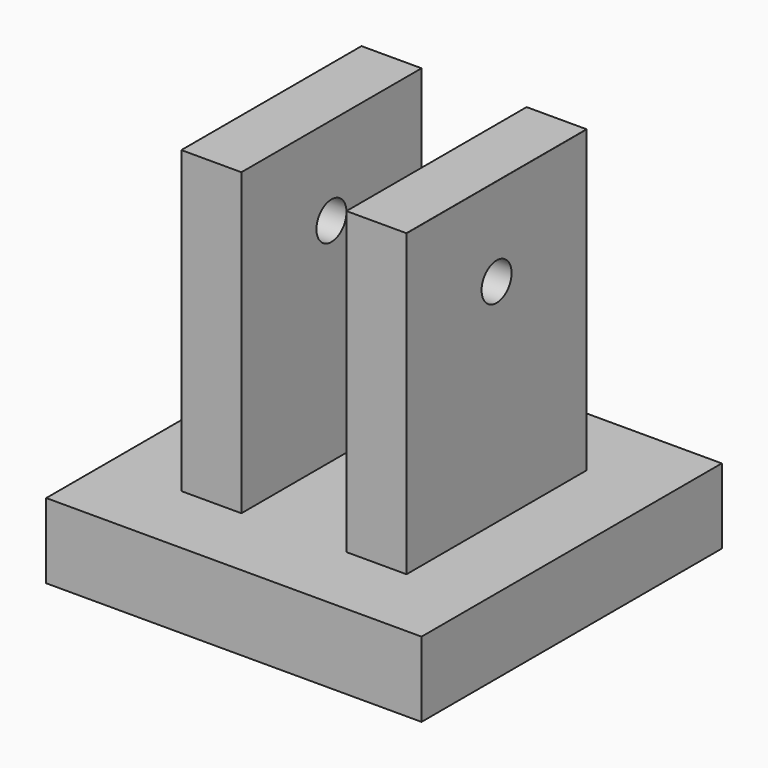
from build123d import *

# Parameters (mm, degrees)
F0_W     = 50
F0_H     = 50
F1_DEPTH = 10
F2_W     = 8
F2_H     = 30
F3_DEPTH = 40
F5_D     = 5
F6_R     = 0.024142


with BuildPart() as f1:
    # F0 (on Top) → F1 (new body)
    with BuildSketch(Plane.XY):
        with Locations((25, -25)):
            Rectangle(F0_W, F0_H)
    extrude(amount=F1_DEPTH)

    # F2 (on face) → F3 (join)
    with BuildSketch(Plane.XY.offset(10)):
        with Locations((14, -25)):
            Rectangle(F2_W, F2_H)
        with Locations((36, -25)):
            Rectangle(F2_W, F2_H)
    extrude(amount=F3_DEPTH)

    # F5 (through all)
    with Locations(Plane(origin=(10, 0, 0), x_dir=(0, -1, 0), z_dir=(-1, 0, 0))):
        with Locations((25, 38.225368)):
            Hole(F5_D / 2)

    # F6
    f6_edges = [f1.edges().sort_by_distance(p)[0] for p in [
        (40, -25, 50),
    ]]
    fillet(f6_edges, radius=F6_R)


solid = f1.part
